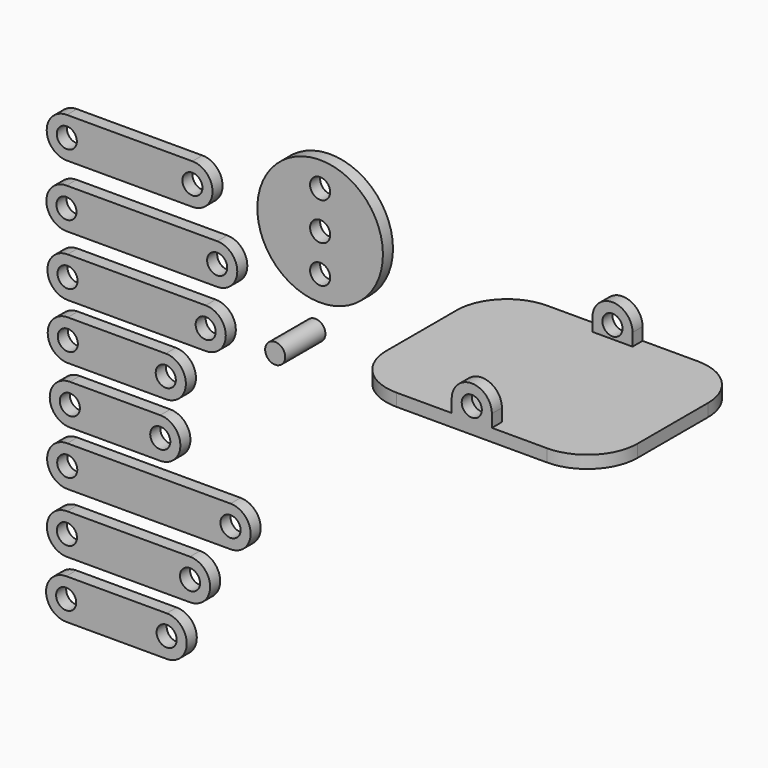
from build123d import *

# Parameters (mm, degrees)
F1_R      = 4
F2_DEPTH  = 5
F3_R      = 4
F4_DEPTH  = 5
F5_R      = 4
F6_DEPTH  = 5
F7_R      = 4
F8_DEPTH  = 5
F9_R      = 4
F10_DEPTH = 5
F11_R     = 4
F12_DEPTH = 5
F13_R     = 4
F14_DEPTH = 5
F15_R     = 25
F15_R_2   = 4
F16_DEPTH = 5
F17_R     = 4
F18_DEPTH = 75
F19_W     = 65
F19_H     = 14.1195788559
F20_DEPTH = 275.3506918171
F21_R     = 20
F22_R     = 4
F23_DEPTH = 5
F24_R     = 4
F25_DEPTH = 20


with BuildPart() as f2:
    # F1 (on Front) → F2 (new body)
    with BuildSketch(Plane.XZ):
        with BuildLine():
            Line((50, 8), (0, 8))
            ThreePointArc((0, 8), (-8, 0), (0, -8))
            Line((0, -8), (50, -8))
            ThreePointArc((50, -8), (58, 0), (50, 8))
        make_face()
        Circle(F1_R, mode=Mode.SUBTRACT)
        with Locations((50, 0)):
            Circle(F1_R, mode=Mode.SUBTRACT)
    extrude(amount=F2_DEPTH)


with BuildPart() as f4:
    # F3 (on Front) → F4 (new body)
    with BuildSketch(Plane.XZ):
        with BuildLine():
            Line((59.8611076386, -16.8102564365), (-0.1388923614, -16.8102564365))
            ThreePointArc((-0.1388923614, -16.8102564365), (-8.1388923614, -24.8102564365), (-0.1388923614, -32.8102564365))
            Line((-0.1388923614, -32.8102564365), (59.8611076386, -32.8102564365))
            ThreePointArc((59.8611076386, -32.8102564365), (67.8611076386, -24.8102564365), (59.8611076386, -16.8102564365))
        make_face()
        with Locations((-0.1388923614, -24.8102564365)):
            Circle(F3_R, mode=Mode.SUBTRACT)
        with Locations((59.8611076386, -24.8102564365)):
            Circle(F3_R, mode=Mode.SUBTRACT)
    extrude(amount=F4_DEPTH)


with BuildPart() as f6:
    # F5 (on Front) → F6 (new body)
    with BuildSketch(Plane.XZ):
        with BuildLine():
            Line((55.2858414897, -40.7988777459), (0.2858414897, -40.7988777459))
            ThreePointArc((0.2858414897, -40.7988777459), (-7.7141585103, -48.7988777459), (0.2858414897, -56.7988777459))
            Line((0.2858414897, -56.7988777459), (55.2858414897, -56.7988777459))
            ThreePointArc((55.2858414897, -56.7988777459), (63.2858414897, -48.7988777459), (55.2858414897, -40.7988777459))
        make_face()
        with Locations((0.2858414897, -48.7988777459)):
            Circle(F5_R, mode=Mode.SUBTRACT)
        with Locations((55.2858414897, -48.7988777459)):
            Circle(F5_R, mode=Mode.SUBTRACT)
    extrude(amount=F6_DEPTH)


with BuildPart() as f8:
    # F7 (on Front) → F8 (new body)
    with BuildSketch(Plane.XZ):
        with BuildLine():
            Line((39.3963426221, -62.841960609), (0.3963426221, -62.841960609))
            ThreePointArc((0.3963426221, -62.841960609), (-7.6036573779, -70.841960609), (0.3963426221, -78.841960609))
            Line((0.3963426221, -78.841960609), (39.3963426221, -78.841960609))
            ThreePointArc((39.3963426221, -78.841960609), (47.3963426221, -70.841960609), (39.3963426221, -62.841960609))
        make_face()
        with Locations((0.3963426221, -70.841960609)):
            Circle(F7_R, mode=Mode.SUBTRACT)
        with Locations((39.3963426221, -70.841960609)):
            Circle(F7_R, mode=Mode.SUBTRACT)
    extrude(amount=F8_DEPTH)


with BuildPart() as f10:
    # F9 (on Front) → F10 (new body)
    with BuildSketch(Plane.XZ):
        with BuildLine():
            Line((37.2041941751, -85.1524410844), (1.2041941751, -85.1524410844))
            ThreePointArc((1.2041941751, -85.1524410844), (-6.7958058249, -93.1524410844), (1.2041941751, -101.1524410844))
            Line((1.2041941751, -101.1524410844), (37.2041941751, -101.1524410844))
            ThreePointArc((37.2041941751, -101.1524410844), (45.2041941751, -93.1524410844), (37.2041941751, -85.1524410844))
        make_face()
        with Locations((1.2041941751, -93.1524410844)):
            Circle(F9_R, mode=Mode.SUBTRACT)
        with Locations((37.2041941751, -93.1524410844)):
            Circle(F9_R, mode=Mode.SUBTRACT)
    extrude(amount=F10_DEPTH)


with BuildPart() as f12:
    # F11 (on Front) → F12 (new body)
    with BuildSketch(Plane.XZ):
        with BuildLine():
            Line((65.172394955, -107.0498390198), (0.172394955, -107.0498390198))
            ThreePointArc((0.172394955, -107.0498390198), (-7.827605045, -115.0498390198), (0.172394955, -123.0498390198))
            Line((0.172394955, -123.0498390198), (65.172394955, -123.0498390198))
            ThreePointArc((65.172394955, -123.0498390198), (73.172394955, -115.0498390198), (65.172394955, -107.0498390198))
        make_face()
        with Locations((0.172394955, -115.0498390198)):
            Circle(F11_R, mode=Mode.SUBTRACT)
        with Locations((65.172394955, -115.0498390198)):
            Circle(F11_R, mode=Mode.SUBTRACT)
    extrude(amount=F12_DEPTH)


with BuildPart() as f14:
    # F13 (on Front) → F14 (new body)
    with BuildSketch(Plane.XZ):
        with BuildLine():
            Line((49.0512155471, -130.8846188784), (0.0512155471, -130.8846188784))
            ThreePointArc((0.0512155471, -130.8846188784), (-7.9487844529, -138.8846188784), (0.0512155471, -146.8846188784))
            Line((0.0512155471, -146.8846188784), (49.0512155471, -146.8846188784))
            ThreePointArc((49.0512155471, -146.8846188784), (57.0512155471, -138.8846188784), (49.0512155471, -130.8846188784))
        make_face()
        with Locations((0.0512155471, -138.8846188784)):
            Circle(F13_R, mode=Mode.SUBTRACT)
        with Locations((49.0512155471, -138.8846188784)):
            Circle(F13_R, mode=Mode.SUBTRACT)
    extrude(amount=F14_DEPTH)


with BuildPart() as f16:
    # F15 (on Front) → F16 (new body)
    with BuildSketch(Plane.XZ):
        with Locations((100.8447408676, 0)):
            Circle(F15_R)
        with Locations((100.8447408676, -15)):
            Circle(F15_R_2, mode=Mode.SUBTRACT)
        with Locations((100.8447408676, 0)):
            Circle(F15_R_2, mode=Mode.SUBTRACT)
        with Locations((100.8447408676, 15)):
            Circle(F15_R_2, mode=Mode.SUBTRACT)
    extrude(amount=F16_DEPTH)


with BuildPart() as f18:
    # F17 (on Front) → F18 (new body)
    with BuildSketch(Plane.XZ):
        with BuildLine():
            Line((167.2107994556, 0), (167.2107994556, -5))
            Line((167.2107994556, -5), (267.2107994556, -5))
            Line((267.2107994556, -5), (267.2107994556, 0))
            Line((267.2107994556, 0), (225.2107994556, 0))
            Line((225.2107994556, 0), (225.2107994556, 5))
            ThreePointArc((225.2107994556, 5), (217.2107994556, 13), (209.2107994556, 5))
            Line((209.2107994556, 5), (209.2107994556, 0))
            Line((209.2107994556, 0), (167.2107994556, 0))
        make_face()
        with Locations((217.2107994556, 5)):
            Circle(F17_R, mode=Mode.SUBTRACT)
    extrude(amount=F18_DEPTH)

    # F19 (on face) → F20 (cut, through all)
    with BuildSketch(Plane.YZ.offset(267.2107994556)):
        with Locations((-37.5, 7.0597894279)):
            Rectangle(F19_W, F19_H)
    extrude(amount=-F20_DEPTH, mode=Mode.SUBTRACT)

    # F21
    f21_edges = [f18.edges().sort_by_distance(p)[0] for p in [
        (267.210799, -75, -2.5),
        (267.210799, 0, -2.5),
        (167.210799, 0, -2.5),
        (167.210799, -75, -2.5),
    ]]
    fillet(f21_edges, radius=F21_R)


with BuildPart() as f23:
    # F22 (on Front) → F23 (new body)
    with BuildSketch(Plane.XZ):
        with BuildLine():
            Line((39.7509257169, -153.7550849915), (-0.2490742831, -153.7550849915))
            ThreePointArc((-0.2490742831, -153.7550849915), (-8.2490742831, -161.7550849915), (-0.2490742831, -169.7550849915))
            Line((-0.2490742831, -169.7550849915), (39.7509257169, -169.7550849915))
            ThreePointArc((39.7509257169, -169.7550849915), (47.7509257169, -161.7550849915), (39.7509257169, -153.7550849915))
        make_face()
        with Locations((-0.2490742831, -161.7550849915)):
            Circle(F22_R, mode=Mode.SUBTRACT)
        with Locations((39.7509257169, -161.7550849915)):
            Circle(F22_R, mode=Mode.SUBTRACT)
    extrude(amount=F23_DEPTH)


with BuildPart() as f25:
    # F24 (on Front) → F25 (new body)
    with BuildSketch(Plane.XZ):
        with Locations((94.9541926384, -38.5981909931)):
            Circle(F24_R)
    extrude(amount=F25_DEPTH)


solid = Compound([f2.part, f4.part, f6.part, f8.part, f10.part, f12.part, f14.part, f16.part, f18.part, f23.part, f25.part])
